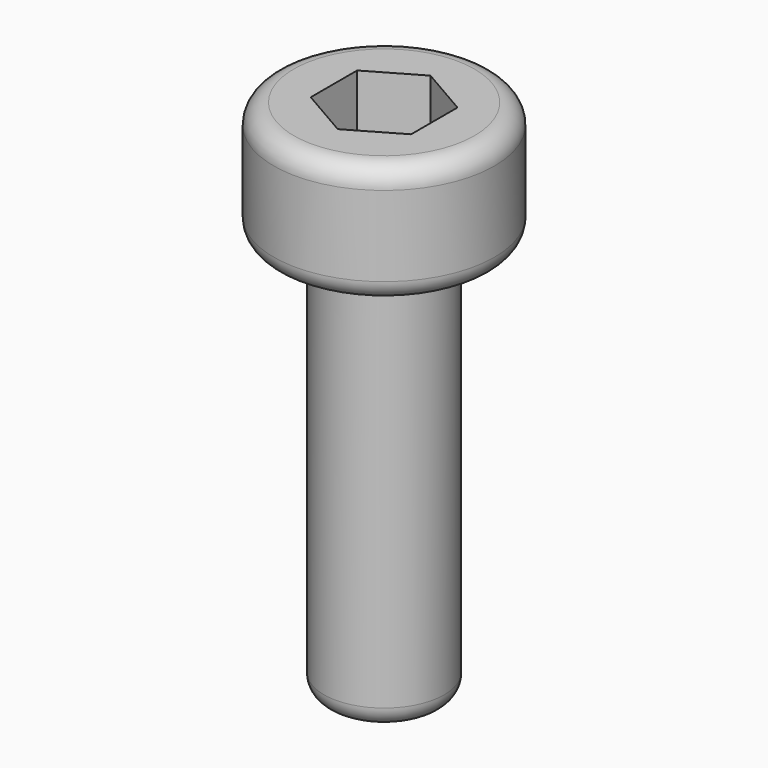
from build123d import *

# Parameters (mm, degrees)
SKETCH011_R     = 2.75
PAD006_DEPTH    = 3
POCKET004_DEPTH = 2
SKETCH013_R     = 1.5
PAD007_DEPTH    = 10
FILLET003_R     = 0.5


with BuildPart() as part:
    # Sketch011 → Pad006 (new body)
    with BuildSketch(Plane.XY):
        Circle(SKETCH011_R)
    extrude(amount=PAD006_DEPTH)

    # Sketch012 (on Face3 of Pad006) → Pocket004 (cut)
    with BuildSketch(Plane.XY.offset(3)):
        Polygon((1.25, -0.721688), (1.25, 0.721688), (0, 1.443376), (-1.25, 0.721688), (-1.25, -0.721688), (0, -1.443376), align=None)
    extrude(amount=-POCKET004_DEPTH, mode=Mode.SUBTRACT)

    # Sketch013 → Pad007 (join)
    with BuildSketch(Plane.XY):
        Circle(SKETCH013_R)
    extrude(amount=-PAD007_DEPTH)

    # Fillet003
    fillet003_edges = [part.edges().sort_by_distance(p)[0] for p in [
        (-2.75, 0, 3),
        (-2.75, 0, 0),
        (-1.5, 0, -10),
    ]]
    fillet(fillet003_edges, radius=FILLET003_R)


with BuildPart() as part_1:
    # Body004 placement: moved
    add(part.part.moved(Location((0, -7, 17))))


with BuildPart() as part_2:
    # Clone placement: moved
    add(part_1.part.moved(Location((0, 14, 0))))


solid = part_2.part
